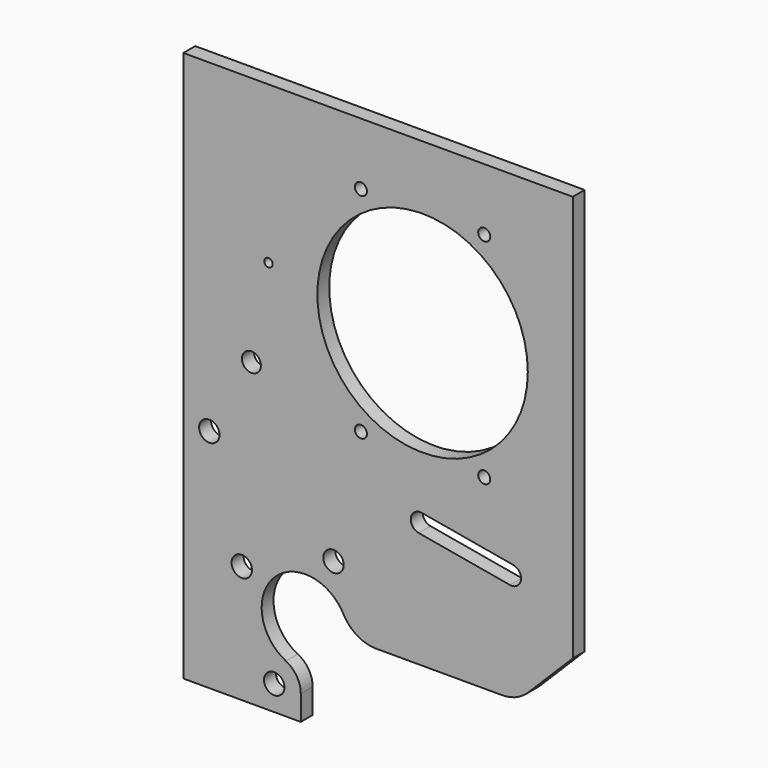
from build123d import *

# Parameters (mm, degrees)
F0_W     = 210
F0_H     = 297
F1_DEPTH = 8
F2_R     = 5.5
F3_DEPTH = 8.001
F4_R     = 56.75
F4_R_2   = 3.25
F5_DEPTH = 8.001
F6_R     = 5.125
F6_R_2   = 2.25
F7_DEPTH = 8.001


with BuildPart() as f1:
    # F0 (on Front) → F1 (new body)
    with BuildSketch(Plane.XZ):
        with Locations((105, 148.5)):
            Rectangle(F0_W, F0_H)
    extrude(amount=-F1_DEPTH)

    # F2 (on face) → F3 (cut, through all)
    with BuildSketch(Plane.XZ):
        with Locations((14, 122)):
            Circle(F2_R)
        with Locations((31.5, 63.5)):
            Circle(F2_R)
        with Locations((81, 82)):
            Circle(F2_R)
        with Locations((49, 13.5)):
            Circle(F2_R)
        with BuildLine():
            ThreePointArc((104.039609, 48), (93.77548, 50.834696), (86.42092, 58.535235))
            ThreePointArc((86.42092, 58.535235), (48.814136, 63.738258), (55.327996, 26.336236))
            ThreePointArc((55.327996, 26.336236), (61.152657, 21.058135), (63.311271, 13.5))
            Line((63.311271, 13.5), (63.311271, 0))
            Line((63.311271, 0), (210, 0))
            Line((210, 0), (210, 77.888055))
            Line((210, 77.888055), (185.96981, 53.857864))
            ThreePointArc((185.96981, 53.857864), (179.481343, 49.522409), (171.827674, 48))
            Line((171.827674, 48), (104.039609, 48))
        make_face()
    extrude(amount=-F3_DEPTH, mode=Mode.SUBTRACT)

    # F4 (on face) → F5 (cut, through all)
    with BuildSketch(Plane.XZ):
        with Locations((129, 205.934511)):
            Circle(F4_R)
        with Locations((95.75, 263.5252)):
            Circle(F4_R_2)
        with Locations((162.25, 263.5252)):
            Circle(F4_R_2)
        with Locations((95.75, 148.343821)):
            Circle(F4_R_2)
        with Locations((162.25, 148.343821)):
            Circle(F4_R_2)
    extrude(amount=-F5_DEPTH, mode=Mode.SUBTRACT)

    # F6 (on face) → F7 (cut, through all)
    with BuildSketch(Plane.XZ):
        with BuildLine():
            Line((177.889947, 111.799242), (128.649559, 120.48165))
            ThreePointArc((128.649559, 120.48165), (122.712473, 116.324458), (126.869665, 110.387371))
            Line((126.869665, 110.387371), (176.110053, 101.704962))
            ThreePointArc((176.110053, 101.704962), (182.04714, 105.862155), (177.889947, 111.799242))
        make_face()
        with Locations((36.723409, 162.174419)):
            Circle(F6_R)
        with Locations((45.894034, 212.34313)):
            Circle(F6_R_2)
    extrude(amount=-F7_DEPTH, mode=Mode.SUBTRACT)


solid = f1.part
